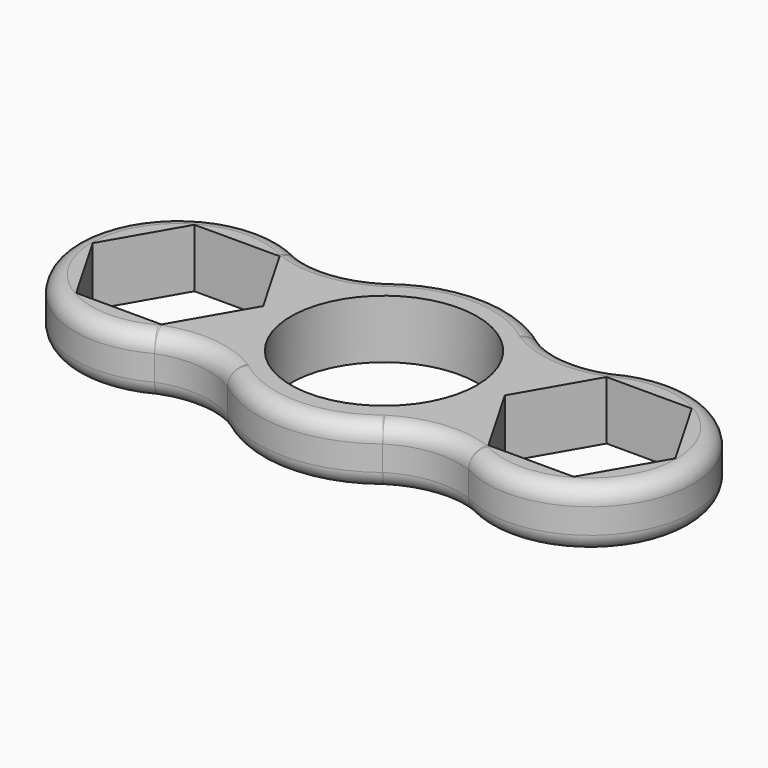
from build123d import *

# Parameters (mm, degrees)
F0_R     = 11.125
F1_DEPTH = 7
F2_R     = 2
F3_R     = 2


with BuildPart() as f1:
    # F0 (on Top) → F1 (new body)
    with BuildSketch(Plane.XY):
        with BuildLine():
            ThreePointArc((18.74733, 10.826125), (13.90015, 10.191447), (9.27886, 11.785701))
            ThreePointArc((9.27886, 11.785701), (0, 15), (-9.27886, 11.785701))
            ThreePointArc((-9.27886, 11.785701), (-13.90015, 10.191447), (-18.74733, 10.826125))
            ThreePointArc((-18.74733, 10.826125), (-36.951446, 0), (-18.74733, -10.826125))
            ThreePointArc((-18.74733, -10.826125), (-13.90015, -10.191447), (-9.27886, -11.785701))
            ThreePointArc((-9.27886, -11.785701), (0, -15), (9.27886, -11.785701))
            ThreePointArc((9.27886, -11.785701), (13.90015, -10.191447), (18.74733, -10.826125))
            ThreePointArc((18.74733, -10.826125), (36.951446, 0), (18.74733, 10.826125))
        make_face()
        Polygon((-29.725315, 8.825), (-19.535083, 8.825), (-14.439967, 0), (-19.535083, -8.825), (-29.725315, -8.825), (-34.820431, 0), align=None, mode=Mode.SUBTRACT)
        Circle(F0_R, mode=Mode.SUBTRACT)
        Polygon((14.439967, 0), (19.535083, 8.825), (29.725315, 8.825), (34.820431, 0), (29.725315, -8.825), (19.535083, -8.825), align=None, mode=Mode.SUBTRACT)
    extrude(amount=F1_DEPTH)

    # F2
    f2_edges = [f1.edges().sort_by_distance(p)[0] for p in [
        (-36.951446, 0, 7),
        (-13.90015, -10.191447, 7),
        (0, -15, 7),
        (13.90015, -10.191447, 7),
        (36.951446, 0, 7),
        (13.90015, 10.191447, 7),
        (0, 15, 7),
        (-13.90015, 10.191447, 7),
    ]]
    fillet(f2_edges, radius=F2_R)

    # F3
    f3_edges = [f1.edges().sort_by_distance(p)[0] for p in [
        (-13.90015, -10.191447, 0),
        (-36.951446, 0, 0),
        (-13.90015, 10.191447, 0),
        (0, 15, 0),
        (13.90015, 10.191447, 0),
        (36.951446, 0, 0),
        (13.90015, -10.191447, 0),
        (0, -15, 0),
    ]]
    fillet(f3_edges, radius=F3_R)


solid = f1.part
